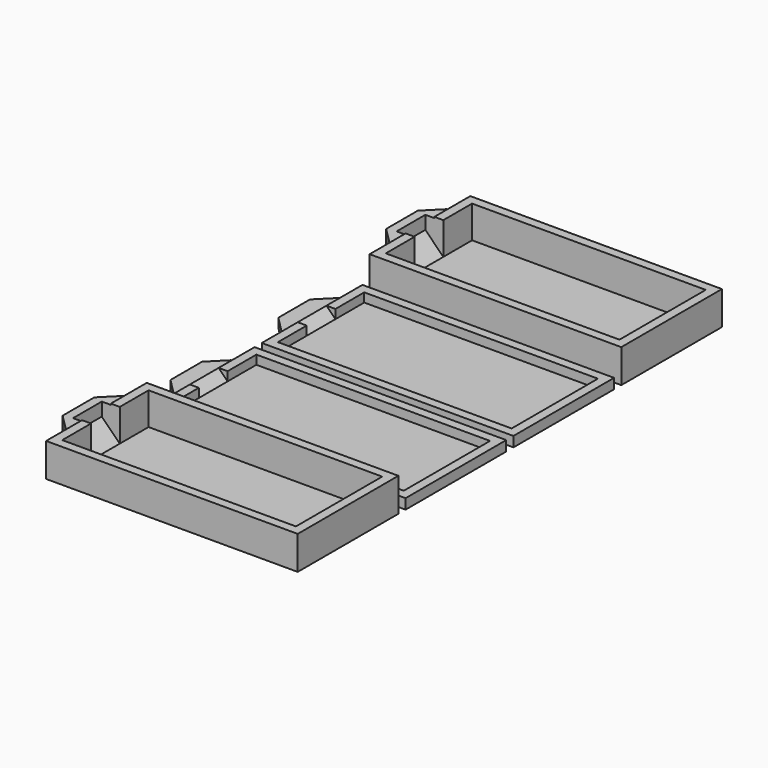
from build123d import *

# Parameters (mm, degrees)
BOX004_W        = 3
BOX004_H        = 4
BOX004_DEPTH    = 5
CHAMFER002_SIZE = 2
BOX005_W        = 2
BOX005_H        = 8
BOX005_DEPTH    = 3.6
CHAMFER003_SIZE = 1.8
SKETCH008_W     = 1
SKETCH008_H     = 14
PAD008_DEPTH    = 3.6
SKETCH009_W     = 28
SKETCH009_H     = 1
PAD009_DEPTH    = 3.6
SKETCH010_W     = 1
SKETCH010_H     = 14
PAD010_DEPTH    = 3.6
SKETCH007_W     = 28
SKETCH007_H     = 1
PAD007_DEPTH    = 3.6
BOX003_W        = 28
BOX003_H        = 14
BOX003_DEPTH    = 0.125
BOX007_W        = 3
BOX007_H        = 4
BOX007_DEPTH    = 5
CHAMFER004_SIZE = 2
BOX008_W        = 2
BOX008_H        = 8
BOX008_DEPTH    = 1
CHAMFER005_SIZE = 1.8
SKETCH012_W     = 1
SKETCH012_H     = 14
PAD012_DEPTH    = 1
SKETCH013_W     = 28
SKETCH013_H     = 1
PAD013_DEPTH    = 1
SKETCH014_W     = 1
SKETCH014_H     = 14
PAD014_DEPTH    = 1
SKETCH011_W     = 28
SKETCH011_H     = 1
PAD011_DEPTH    = 1
BOX006_W        = 28
BOX006_H        = 14
BOX006_DEPTH    = 0.125
BOX010_W        = 3
BOX010_H        = 4
BOX010_DEPTH    = 5
CHAMFER006_SIZE = 2
BOX011_W        = 2
BOX011_H        = 8
BOX011_DEPTH    = 1
CHAMFER007_SIZE = 1.8
SKETCH016_W     = 1
SKETCH016_H     = 14
PAD016_DEPTH    = 1
SKETCH017_W     = 28
SKETCH017_H     = 1
PAD017_DEPTH    = 1
SKETCH018_W     = 1
SKETCH018_H     = 14
PAD018_DEPTH    = 1
SKETCH015_W     = 28
SKETCH015_H     = 1
PAD015_DEPTH    = 1
BOX009_W        = 28
BOX009_H        = 14
BOX009_DEPTH    = 0.125
BOX001_W        = 3
BOX001_H        = 4
BOX001_DEPTH    = 5
CHAMFER_SIZE    = 2
BOX002_W        = 2
BOX002_H        = 8
BOX002_DEPTH    = 3.6
CHAMFER001_SIZE = 1.8
SKETCH004_W     = 1
SKETCH004_H     = 14
PAD004_DEPTH    = 3.6
SKETCH005_W     = 28
SKETCH005_H     = 1
PAD005_DEPTH    = 3.6
SKETCH006_W     = 1
SKETCH006_H     = 14
PAD006_DEPTH    = 3.6
SKETCH003_W     = 28
SKETCH003_H     = 1
PAD003_DEPTH    = 3.6
BOX_W           = 28
BOX_H           = 14
BOX_DEPTH       = 0.125


with BuildPart() as chamfer002:
    # Box004 → Box004 (new body)
    with BuildSketch(Plane(origin=(-1, 5, 0.125), x_dir=(1, 0, 0), z_dir=(0, 0, 1))):
        with Locations((1.5, 2)):
            Rectangle(BOX004_W, BOX004_H)
    extrude(amount=BOX004_DEPTH)

    # Chamfer002
    chamfer002_edges = [chamfer002.edges().sort_by_distance(p)[0] for p in [
        (-1, 7, 0.125),
    ]]
    chamfer(chamfer002_edges, length=CHAMFER002_SIZE)


with BuildPart() as chamfer003:
    # Box005 → Box005 (new body)
    with BuildSketch(Plane(origin=(-2, 3, 0), x_dir=(1, 0, 0), z_dir=(0, 0, 1))):
        with Locations((1, 4)):
            Rectangle(BOX005_W, BOX005_H)
    extrude(amount=BOX005_DEPTH)

    # Chamfer003
    chamfer003_edges = [chamfer003.edges().sort_by_distance(p)[0] for p in [
        (-2, 3, 1.8),
        (-2, 11, 1.8),
    ]]
    chamfer(chamfer003_edges, length=CHAMFER003_SIZE)


with BuildPart() as pad008:
    # Sketch008 → Pad008 (new body)
    with BuildSketch(Plane.XY.offset(0.125)):
        with Locations((0.5, 7)):
            Rectangle(SKETCH008_W, SKETCH008_H)
    extrude(amount=PAD008_DEPTH)


with BuildPart() as pad009:
    # Sketch009 → Pad009 (new body)
    with BuildSketch(Plane.XY.offset(0.125)):
        with Locations((14, 0.5)):
            Rectangle(SKETCH009_W, SKETCH009_H)
    extrude(amount=PAD009_DEPTH)


with BuildPart() as pad010:
    # Sketch010 → Pad010 (new body)
    with BuildSketch(Plane.XY.offset(0.125)):
        with Locations((27.5, 7)):
            Rectangle(SKETCH010_W, SKETCH010_H)
    extrude(amount=PAD010_DEPTH)


with BuildPart() as walls001:
    # Sketch007 → Pad007 (new body)
    with BuildSketch(Plane.XY.offset(0.125)):
        with Locations((14, 13.5)):
            Rectangle(SKETCH007_W, SKETCH007_H)
    extrude(amount=PAD007_DEPTH)

    # Fusion028: union Pad008, Pad009, Pad010
    add(pad008.part)
    add(pad009.part)
    add(pad010.part)

    # Fusion029: union Chamfer003
    add(chamfer003.part)

    # Cut001: cut Chamfer002
    add(chamfer002.part, mode=Mode.SUBTRACT)


with BuildPart() as base_and_walls_do_not_edit004:
    # Box003 → Box003 (new body)
    with BuildSketch(Plane.XY):
        with Locations((14, 7)):
            Rectangle(BOX003_W, BOX003_H)
    extrude(amount=BOX003_DEPTH)

    # Fusion030: union Walls001
    add(walls001.part)


with BuildPart() as chamfer004:
    # Box007 → Box007 (new body)
    with BuildSketch(Plane(origin=(-1, 5, 0.125), x_dir=(1, 0, 0), z_dir=(0, 0, 1))):
        with Locations((1.5, 2)):
            Rectangle(BOX007_W, BOX007_H)
    extrude(amount=BOX007_DEPTH)

    # Chamfer004
    chamfer004_edges = [chamfer004.edges().sort_by_distance(p)[0] for p in [
        (-1, 7, 0.125),
    ]]
    chamfer(chamfer004_edges, length=CHAMFER004_SIZE)


with BuildPart() as chamfer005:
    # Box008 → Box008 (new body)
    with BuildSketch(Plane(origin=(-2, 3, 0), x_dir=(1, 0, 0), z_dir=(0, 0, 1))):
        with Locations((1, 4)):
            Rectangle(BOX008_W, BOX008_H)
    extrude(amount=BOX008_DEPTH)

    # Chamfer005
    chamfer005_edges = [chamfer005.edges().sort_by_distance(p)[0] for p in [
        (-2, 3, 0.5),
        (-2, 11, 0.5),
    ]]
    chamfer(chamfer005_edges, length=CHAMFER005_SIZE)


with BuildPart() as pad012:
    # Sketch012 → Pad012 (new body)
    with BuildSketch(Plane.XY.offset(0.125)):
        with Locations((0.5, 7)):
            Rectangle(SKETCH012_W, SKETCH012_H)
    extrude(amount=PAD012_DEPTH)


with BuildPart() as pad013:
    # Sketch013 → Pad013 (new body)
    with BuildSketch(Plane.XY.offset(0.125)):
        with Locations((14, 0.5)):
            Rectangle(SKETCH013_W, SKETCH013_H)
    extrude(amount=PAD013_DEPTH)


with BuildPart() as pad014:
    # Sketch014 → Pad014 (new body)
    with BuildSketch(Plane.XY.offset(0.125)):
        with Locations((27.5, 7)):
            Rectangle(SKETCH014_W, SKETCH014_H)
    extrude(amount=PAD014_DEPTH)


with BuildPart() as walls002:
    # Sketch011 → Pad011 (new body)
    with BuildSketch(Plane.XY.offset(0.125)):
        with Locations((14, 13.5)):
            Rectangle(SKETCH011_W, SKETCH011_H)
    extrude(amount=PAD011_DEPTH)

    # Fusion031: union Pad012, Pad013, Pad014
    add(pad012.part)
    add(pad013.part)
    add(pad014.part)

    # Fusion032: union Chamfer005
    add(chamfer005.part)

    # Cut002: cut Chamfer004
    add(chamfer004.part, mode=Mode.SUBTRACT)


with BuildPart() as base_and_walls_do_not_edit005:
    # Box006 → Box006 (new body)
    with BuildSketch(Plane.XY):
        with Locations((14, 7)):
            Rectangle(BOX006_W, BOX006_H)
    extrude(amount=BOX006_DEPTH)

    # Fusion033: union Walls002
    add(walls002.part)


with BuildPart() as base_and_walls_do_not_edit005_1:
    # Fusion033 placement: moved
    add(base_and_walls_do_not_edit005.part.moved(Location((0, 30, 0))))


with BuildPart() as chamfer006:
    # Box010 → Box010 (new body)
    with BuildSketch(Plane(origin=(-1, 5, 0.125), x_dir=(1, 0, 0), z_dir=(0, 0, 1))):
        with Locations((1.5, 2)):
            Rectangle(BOX010_W, BOX010_H)
    extrude(amount=BOX010_DEPTH)

    # Chamfer006
    chamfer006_edges = [chamfer006.edges().sort_by_distance(p)[0] for p in [
        (-1, 7, 0.125),
    ]]
    chamfer(chamfer006_edges, length=CHAMFER006_SIZE)


with BuildPart() as chamfer007:
    # Box011 → Box011 (new body)
    with BuildSketch(Plane(origin=(-2, 3, 0), x_dir=(1, 0, 0), z_dir=(0, 0, 1))):
        with Locations((1, 4)):
            Rectangle(BOX011_W, BOX011_H)
    extrude(amount=BOX011_DEPTH)

    # Chamfer007
    chamfer007_edges = [chamfer007.edges().sort_by_distance(p)[0] for p in [
        (-2, 3, 0.5),
        (-2, 11, 0.5),
    ]]
    chamfer(chamfer007_edges, length=CHAMFER007_SIZE)


with BuildPart() as pad016:
    # Sketch016 → Pad016 (new body)
    with BuildSketch(Plane.XY.offset(0.125)):
        with Locations((0.5, 7)):
            Rectangle(SKETCH016_W, SKETCH016_H)
    extrude(amount=PAD016_DEPTH)


with BuildPart() as pad017:
    # Sketch017 → Pad017 (new body)
    with BuildSketch(Plane.XY.offset(0.125)):
        with Locations((14, 0.5)):
            Rectangle(SKETCH017_W, SKETCH017_H)
    extrude(amount=PAD017_DEPTH)


with BuildPart() as pad018:
    # Sketch018 → Pad018 (new body)
    with BuildSketch(Plane.XY.offset(0.125)):
        with Locations((27.5, 7)):
            Rectangle(SKETCH018_W, SKETCH018_H)
    extrude(amount=PAD018_DEPTH)


with BuildPart() as walls003:
    # Sketch015 → Pad015 (new body)
    with BuildSketch(Plane.XY.offset(0.125)):
        with Locations((14, 13.5)):
            Rectangle(SKETCH015_W, SKETCH015_H)
    extrude(amount=PAD015_DEPTH)

    # Fusion034: union Pad016, Pad017, Pad018
    add(pad016.part)
    add(pad017.part)
    add(pad018.part)

    # Fusion035: union Chamfer007
    add(chamfer007.part)

    # Cut003: cut Chamfer006
    add(chamfer006.part, mode=Mode.SUBTRACT)


with BuildPart() as base_and_walls_do_not_edit006:
    # Box009 → Box009 (new body)
    with BuildSketch(Plane.XY):
        with Locations((14, 7)):
            Rectangle(BOX009_W, BOX009_H)
    extrude(amount=BOX009_DEPTH)

    # Fusion036: union Walls003
    add(walls003.part)


with BuildPart() as base_and_walls_do_not_edit006_1:
    # Fusion036 placement: moved
    add(base_and_walls_do_not_edit006.part.moved(Location((0, 15, 0))))


with BuildPart() as chamfer_body:
    # Box001 → Box001 (new body)
    with BuildSketch(Plane(origin=(-1, 5, 0.125), x_dir=(1, 0, 0), z_dir=(0, 0, 1))):
        with Locations((1.5, 2)):
            Rectangle(BOX001_W, BOX001_H)
    extrude(amount=BOX001_DEPTH)

    # Chamfer
    chamfer_edges = [chamfer_body.edges().sort_by_distance(p)[0] for p in [
        (-1, 7, 0.125),
    ]]
    chamfer(chamfer_edges, length=CHAMFER_SIZE)


with BuildPart() as chamfer001:
    # Box002 → Box002 (new body)
    with BuildSketch(Plane(origin=(-2, 3, 0), x_dir=(1, 0, 0), z_dir=(0, 0, 1))):
        with Locations((1, 4)):
            Rectangle(BOX002_W, BOX002_H)
    extrude(amount=BOX002_DEPTH)

    # Chamfer001
    chamfer001_edges = [chamfer001.edges().sort_by_distance(p)[0] for p in [
        (-2, 3, 1.8),
        (-2, 11, 1.8),
    ]]
    chamfer(chamfer001_edges, length=CHAMFER001_SIZE)


with BuildPart() as pad004:
    # Sketch004 → Pad004 (new body)
    with BuildSketch(Plane.XY.offset(0.125)):
        with Locations((0.5, 7)):
            Rectangle(SKETCH004_W, SKETCH004_H)
    extrude(amount=PAD004_DEPTH)


with BuildPart() as pad005:
    # Sketch005 → Pad005 (new body)
    with BuildSketch(Plane.XY.offset(0.125)):
        with Locations((14, 0.5)):
            Rectangle(SKETCH005_W, SKETCH005_H)
    extrude(amount=PAD005_DEPTH)


with BuildPart() as pad006:
    # Sketch006 → Pad006 (new body)
    with BuildSketch(Plane.XY.offset(0.125)):
        with Locations((27.5, 7)):
            Rectangle(SKETCH006_W, SKETCH006_H)
    extrude(amount=PAD006_DEPTH)


with BuildPart() as walls:
    # Sketch003 → Pad003 (new body)
    with BuildSketch(Plane.XY.offset(0.125)):
        with Locations((14, 13.5)):
            Rectangle(SKETCH003_W, SKETCH003_H)
    extrude(amount=PAD003_DEPTH)

    # Fusion001: union Pad004, Pad005, Pad006
    add(pad004.part)
    add(pad005.part)
    add(pad006.part)

    # Fusion: union Chamfer001
    add(chamfer001.part)

    # Cut: cut Chamfer body
    add(chamfer_body.part, mode=Mode.SUBTRACT)


with BuildPart() as fusion037:
    # Box → Box (new body)
    with BuildSketch(Plane.XY):
        with Locations((14, 7)):
            Rectangle(BOX_W, BOX_H)
    extrude(amount=BOX_DEPTH)

    # Fusion027: union Walls
    add(walls.part)


with BuildPart() as fusion037_1:
    # Fusion027 placement: moved
    add(fusion037.part.moved(Location((0, 45, 0))))

    # Fusion037: union Base and Walls - do not edit004, Base and Walls - do not edit005, Base and Walls - do not edit006
    add(base_and_walls_do_not_edit004.part)
    add(base_and_walls_do_not_edit005_1.part)
    add(base_and_walls_do_not_edit006_1.part)


solid = fusion037_1.part
